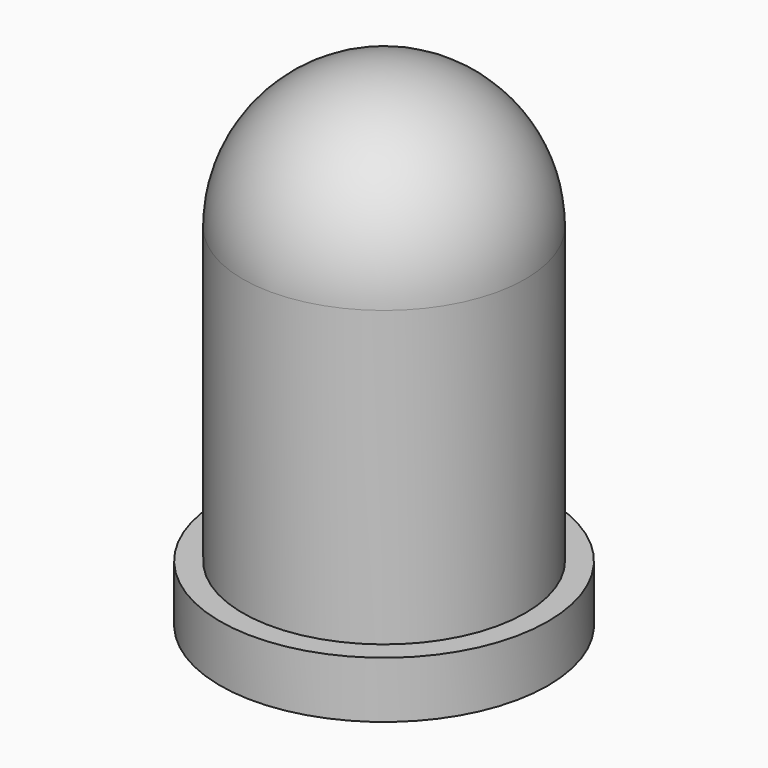
from build123d import *

# Parameters (mm, degrees)
CYLINDER003_R     = 2.9
CYLINDER003_DEPTH = 1
SPHERE_ANGLE      = 180
SPHERE_ROLL_ANGLE = 90
CYLINDER002_R     = 2.5
CYLINDER002_DEPTH = 6.2


with BuildPart() as cilindro003:
    # Cylinder003 → Cylinder003 (new body)
    with BuildSketch(Plane.XY):
        Circle(CYLINDER003_R)
    extrude(amount=CYLINDER003_DEPTH)


with BuildPart() as obj1:
    # Sphere → Sphere (revolve)
    with BuildSketch(Plane.XZ):
        with BuildLine():
            ThreePointArc((0, -2.5), (2.5, 0), (0, 2.5))
            Line((0, 2.5), (0, -2.5))
        make_face()
    revolve(axis=Axis((0, 0, 0), (0, 0, 1)), revolution_arc=SPHERE_ANGLE)


with BuildPart() as obj1_1:
    # Sphere roll: moved
    add(obj1.part.rotate(Axis((0, 0, 0), (1, 0, 0)), SPHERE_ROLL_ANGLE))


with BuildPart() as obj1_2:
    # Sphere placement: moved
    add(obj1_1.part.moved(Location((0, 0, 6.2))))


with BuildPart() as funda:
    # Cylinder002 → Cylinder002 (new body)
    with BuildSketch(Plane.XY):
        Circle(CYLINDER002_R)
    extrude(amount=CYLINDER002_DEPTH)

    # Fusion001: union Cilindro003, obj1
    add(cilindro003.part)
    add(obj1_2.part)


with BuildPart() as funda_1:
    # Fusion001 placement: moved
    add(funda.part.moved(Location((0, 6, 1.5))))


solid = funda_1.part
